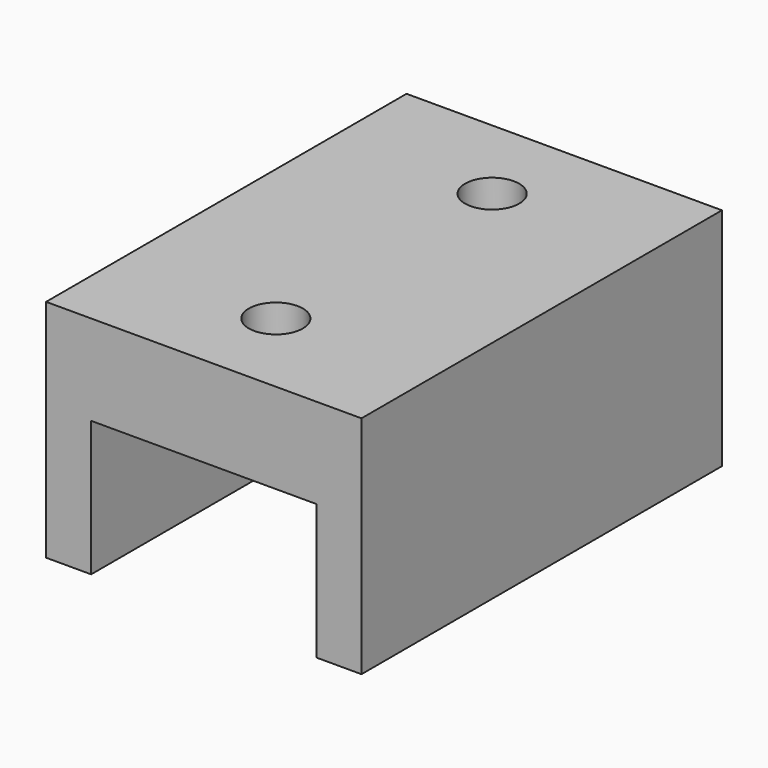
from build123d import *

# Parameters (mm, degrees)
F1_DEPTH = 50
F2_R     = 3
F3_DEPTH = 25


with BuildPart() as f1:
    # F0 (on Front) → F1 (new body)
    with BuildSketch(Plane.XZ):
        Polygon((-17.5, 12.5), (-17.5, -12.5), (-12.5, -12.5), (-12.5, 2.5), (12.5, 2.5), (12.5, -12.5), (17.5, -12.5), (17.5, 12.5), align=None)
    extrude(amount=F1_DEPTH)

    # F2 (on face) → F3 (cut)
    with BuildSketch(Plane.XY.offset(12.5)):
        with Locations((0, -10)):
            Circle(F2_R)
        with Locations((0, -40)):
            Circle(F2_R)
    extrude(amount=-F3_DEPTH, mode=Mode.SUBTRACT)


solid = f1.part
